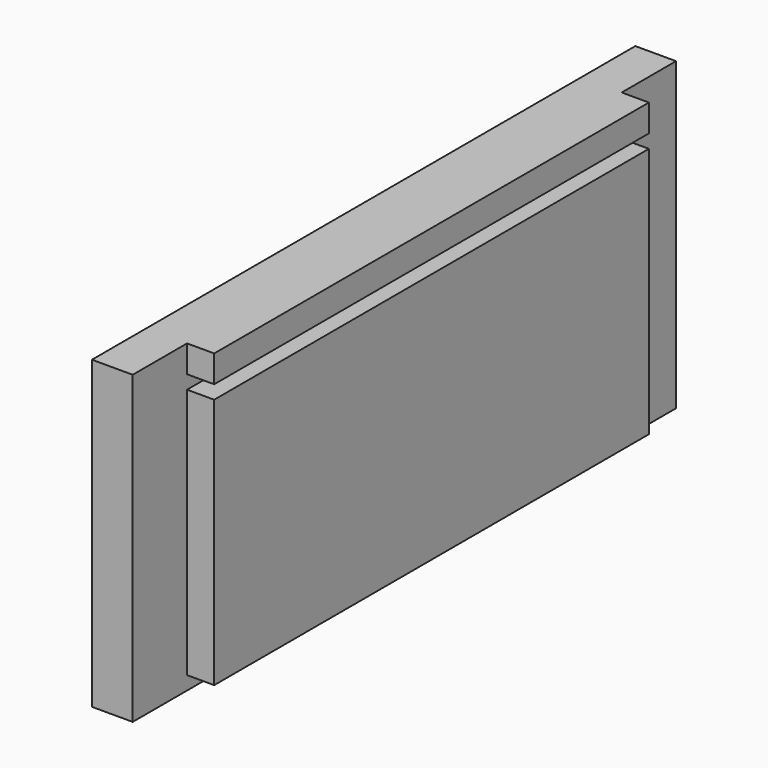
from build123d import *

# Parameters (mm, degrees)
F0_W     = 160
F0_H     = 74
F1_DEPTH = 12
F0_H_2   = 8
F2_DEPTH = 20


with BuildPart() as f1:
    # F0 (on Right) → F1 (new body)
    with BuildSketch(Plane.YZ):
        Polygon((-73.062379, 19.760398), (-93.062379, 19.760398), (-93.062379, -70.239602), (106.937621, -70.239602), (106.937621, 19.760398), (86.937621, 19.760398), (86.937621, 11.760398), (-73.062379, 11.760398), align=None)
        with Locations((6.937621, -29.239602)):
            Rectangle(F0_W, F0_H, mode=Mode.SUBTRACT)
    extrude(amount=F1_DEPTH)

    # F0 (on Right) → F2 (join)
    with BuildSketch(Plane.YZ):
        with Locations((6.937621, 15.760398)):
            Rectangle(F0_W, F0_H_2)
        with Locations((6.937621, -29.239602)):
            Rectangle(F0_W, F0_H)
    extrude(amount=F2_DEPTH)


solid = f1.part
